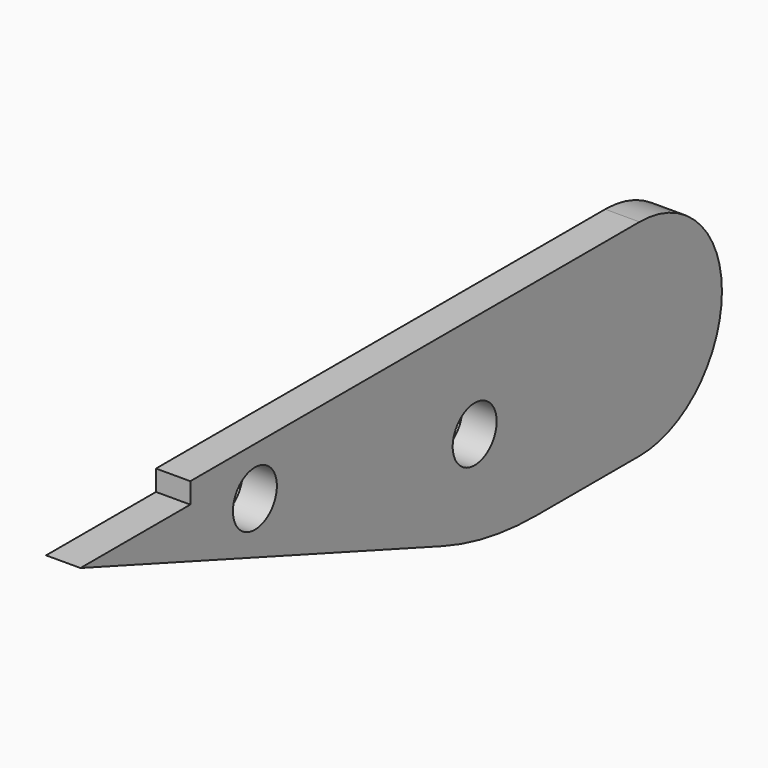
from build123d import *

# Parameters (mm, degrees)
F0_R     = 4
F1_DEPTH = 5


with BuildPart() as f1:
    # F0 (on Right) → F1 (new body)
    with BuildSketch(Plane.YZ):
        with BuildLine():
            Line((50, 15), (-31.757568, 15))
            Line((-31.757568, 15), (-31.757568, 12))
            Line((-31.757568, 12), (-51.757568, 12))
            Line((-51.757568, 12), (14.139664, -11.984631))
            ThreePointArc((14.139664, -11.984631), (22.558263, -14.240388), (31.240672, -15))
            Line((31.240672, -15), (50, -15))
            ThreePointArc((50, -15), (65, 0), (50, 15))
        make_face()
        with Locations((-20, 8)):
            Circle(F0_R, mode=Mode.SUBTRACT)
        with Locations((20, 0)):
            Circle(F0_R, mode=Mode.SUBTRACT)
    extrude(amount=F1_DEPTH)


solid = f1.part
